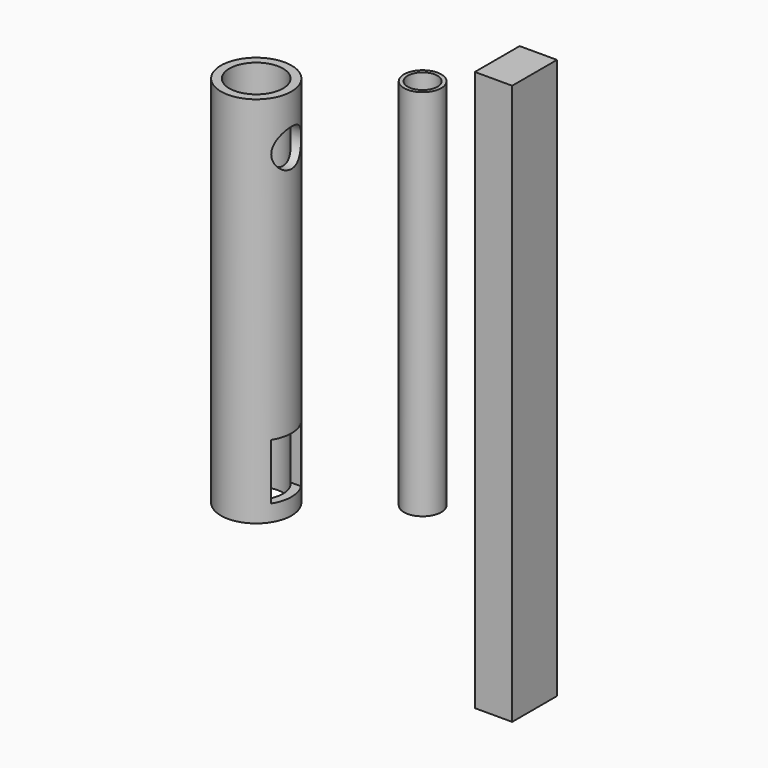
from build123d import *

# Parameters (mm, degrees)
F0_R     = 9.45161
F0_R_2   = 7.20171
F1_DEPTH = 50
F2_R     = 5
F2_W     = 10
F2_H     = 15
F3_DEPTH = 250
F4_R     = 5
F5_DEPTH = 50
F6_T     = -1
F7_W     = 10
F7_H     = 15
F8_DEPTH = 75


with BuildPart() as f1:
    # F0 (on Top) → F1 (new body, symmetric)
    with BuildSketch(Plane.XY):
        with Locations((-45.997985, 0)):
            Circle(F0_R)
        with Locations((-45.997985, 0)):
            Circle(F0_R_2, mode=Mode.SUBTRACT)
    extrude(amount=F1_DEPTH, both=True)

    # F2 (on Right) → F3 (cut, symmetric)
    with BuildSketch(Plane.YZ):
        with Locations((0, 36.743954)):
            Circle(F2_R)
        with Locations((0, -38.074599)):
            Rectangle(F2_W, F2_H)
    extrude(amount=F3_DEPTH, both=True, mode=Mode.SUBTRACT)


with BuildPart() as f5:
    # F4 (on Top) → F5 (new body, symmetric)
    with BuildSketch(Plane.XY):
        with Locations((-18.054435, 20.77621)):
            Circle(F4_R)
    extrude(amount=F5_DEPTH, both=True)

    # F6
    f6_openings = [f5.faces().sort_by_distance(p)[0] for p in [
        (-18.054435, 20.77621, 50),
    ]]
    offset(amount=F6_T, openings=f6_openings)


with BuildPart() as f8:
    # F7 (on Top) → F8 (new body, symmetric)
    with BuildSketch(Plane.XY):
        with Locations((22.852822, 0.877016)):
            Rectangle(F7_W, F7_H)
    extrude(amount=F8_DEPTH, both=True)


solid = Compound([f1.part, f5.part, f8.part])
